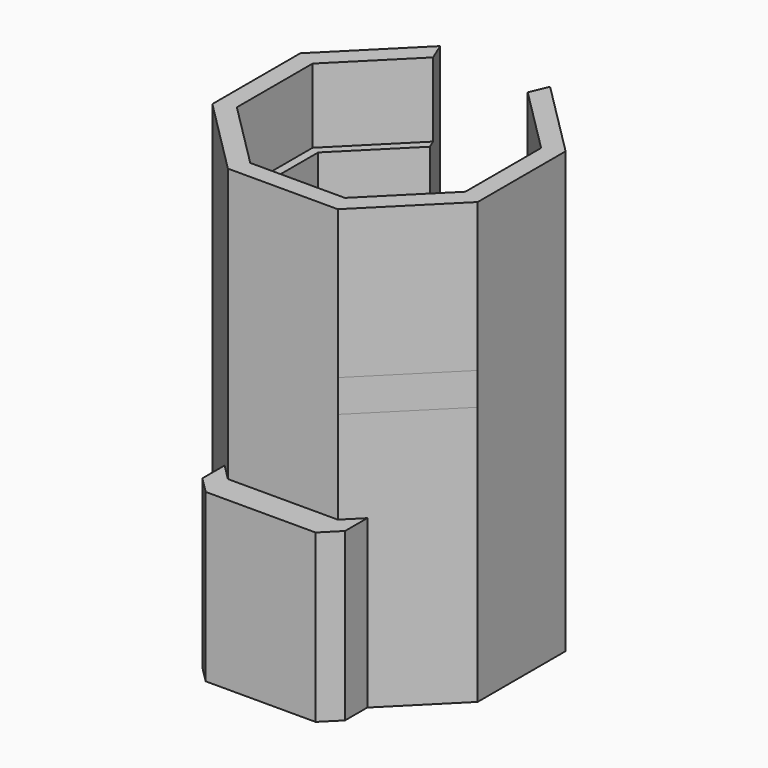
from build123d import *

# Parameters (mm, degrees)
PAD010_DEPTH    = 16
PAD011_DEPTH    = 2
PAD012_DEPTH    = 16
SKETCH020_R     = 4.9658524872
POCKET004_DEPTH = 18.001
SKETCH021_R     = 4.9658524872
PAD013_DEPTH    = 10
FILLET001_R     = 4
PAD014_DEPTH    = 3.5
PAD015_DEPTH    = 8
PAD016_DEPTH    = 8
POCKET005_DEPTH = 16
POCKET006_DEPTH = 16
POCKET007_DEPTH = 5.4388264991
PAD017_DEPTH    = 18
PAD018_DEPTH    = 2


with BuildPart() as part:
    # Sketch017 → Pad010 (new body)
    with BuildSketch(Plane.XY):
        Polygon((-5.9315932017, 14.3201327539), (-14.3201327539, 5.9315932017), (-14.3201327539, -5.9315932017), (-5.9315932017, -14.3201327539), (5.9315932017, -14.3201327539), (14.3201327539, -5.9315932017), (14.3201327539, 5.9315932017), (5.9315932017, 14.3201327539), align=None)
        Polygon((-5.3516942143, 12.9201327539), (-12.9201327539, 5.3516942143), (-12.9201327539, -5.3516942143), (-5.3516942143, -12.9201327539), (5.3516942143, -12.9201327539), (12.9201327539, -5.3516942143), (12.9201327539, 5.3516942143), (5.3516942143, 12.9201327539), align=None, mode=Mode.SUBTRACT)
    extrude(amount=PAD010_DEPTH)

    # Sketch018 (on Face18 of Pad010) → Pad011 (join)
    with BuildSketch(Plane.XY.offset(16)):
        Polygon((-5.9315932017, 14.3201327539), (-14.3201327539, 5.9315932017), (-14.3201327539, -5.9315932017), (-5.9315932017, -14.3201327539), (5.9315932017, -14.3201327539), (14.3201327539, -5.9315932017), (14.3201327539, 5.9315932017), (5.9315932017, 14.3201327539), align=None)
    extrude(amount=PAD011_DEPTH)

    # Sketch019 (on Face10 of Pad011) → Pad012 (join)
    with BuildSketch(Plane(origin=(0, 0, 16), x_dir=(1, 0, 0), z_dir=(0, 0, -1))):
        Polygon((-3.6534186086, 8.8201327539), (-8.8201327539, 3.6534186086), (-8.8201327539, -3.6534186086), (-3.6534186086, -8.8201327539), (3.6534186086, -8.8201327539), (8.8201327539, -3.6534186086), (8.8201327539, 3.6534186086), (3.6534186086, 8.8201327539), align=None)
        Polygon((-3.0735196213, 7.4201327539), (-7.4201327539, 3.0735196213), (-7.4201327539, -3.0735196213), (-3.0735196213, -7.4201327539), (3.0735196213, -7.4201327539), (7.4201327539, -3.0735196213), (7.4201327539, 3.0735196213), (3.0735196213, 7.4201327539), align=None, mode=Mode.SUBTRACT)
    extrude(amount=PAD012_DEPTH)

    # Sketch020 (on Face18 of Pad012) → Pocket004 (cut, through all)
    with BuildSketch(Plane.XY.offset(18)):
        Circle(SKETCH020_R)
    extrude(amount=-POCKET004_DEPTH, mode=Mode.SUBTRACT)

    # Sketch021 (on Face18 of Pocket004) → Pad013 (join)
    with BuildSketch(Plane.XY.offset(18)):
        Polygon((-5.9315932017, 14.3201327539), (-14.3201327539, 5.9315932017), (-14.3201327539, -5.9315932017), (-5.9315932017, -14.3201327539), (5.9315932017, -14.3201327539), (14.3201327539, -5.9315932017), (14.3201327539, 5.9315932017), (5.9315932017, 14.3201327539), align=None)
        Circle(SKETCH021_R, mode=Mode.SUBTRACT)
    extrude(amount=PAD013_DEPTH)

    # Sketch022 (on Face30 of Pad013) → SubtractiveLoft001 section 0
    with BuildSketch(Plane.XY.offset(28)):
        with BuildLine():
            Line((-4, 8.8813062549), (4, 8.8813062549))
            ThreePointArc((9.6914368355, -0.9765515123), (7.540123318, 4.3532922273), (4, 8.8813062549))
            Line((9.6914368355, -0.9765515123), (5.6914368355, -7.9047547426))
            ThreePointArc((-5.6914368355, -7.9047547426), (0, -8.7065844547), (5.6914368355, -7.9047547426))
            Line((-9.6914368355, -0.9765515123), (-5.6914368355, -7.9047547426))
            ThreePointArc((-4, 8.8813062549), (-7.540123318, 4.3532922273), (-9.6914368355, -0.9765515123))
        make_face()
    # Sketch020 (on Face18 of Pad012) → SubtractiveLoft001 section 1
    with BuildSketch(Plane.XY.offset(18)):
        Circle(SKETCH020_R)
    loft(mode=Mode.SUBTRACT)

    # Fillet001
    fillet001_edges = [part.edges().sort_by_distance(p)[0] for p in [
        (-3.019628, 6.704561, 23),
        (3.019628, 6.704561, 23),
        (7.328645, -0.488276, 23),
        (4.296506, -5.967356, 23),
        (-4.296506, -5.967356, 23),
        (-7.316135, -0.737206, 23),
    ]]
    fillet(fillet001_edges, radius=FILLET001_R)

    # Fillet001 Face1 → Pad014 (add)
    with BuildSketch(Plane(origin=(-1.41492e-05, -8.3949e-06, 28), x_dir=(0, 1, 0), z_dir=(0, 0, 1))):
        Polygon((14.3201411488, 5.9315790525), (5.9316015966, 14.3201186047), (-5.9315848068, 14.3201186047), (-14.320124359, 5.9315790525), (-14.320124359, -5.9316073508), (-5.9315848068, -14.3201469031), (5.9316015966, -14.3201469031), (14.3201411488, -5.9316073508), align=None)
        with BuildLine():
            ThreePointArc((0.6981416524, 9.1988598615), (4.3533006222, 7.5401091688), (7.6174003456, 5.2040239924))
            add(Edge.make_bspline(
                [(7.617400349, 5.2040239959), (7.7132577068, 5.1201607596), (7.8063876359, 5.031886882), (7.8964125114, 4.939296241), (7.982957308, 4.8425381618), (8.0656595897, 4.7418240725), (8.2231599214, 4.5324356881), (8.2979128129, 4.4237205382), (8.3681230651, 4.3115347848), (8.433499246, 4.1961954396), (8.4938013046, 4.0780606035), (8.6043808728, 3.8359316462), (8.6545672642, 3.7118947093), (8.6992281813, 3.5858065872), (8.7382471408, 3.4580942261), (8.7715746096, 3.3291970115), (8.8269528158, 3.0695710659), (8.8489744981, 2.9388376243), (8.8653095986, 2.8077886123), (8.8760424303, 2.6768547935), (8.8813146498, 2.5464408839), (8.8813146498, 2.4169071006)],
                knots=[0, 0, 0, 0, 0, 0, 0, 0.2477442233, 0.2477442233, 0.2477442233, 0.2477442233, 0.2477442233, 0.4968400769, 0.4968400769, 0.4968400769, 0.4968400769, 0.4968400769, 0.7480972856, 0.7480972856, 0.7480972856, 0.7480972856, 0.7480972856, 1, 1, 1, 1, 1, 1, 1], degree=6))
            Line((8.8813146498, 2.4169071006), (8.8813146498, -2.4169428359))
            add(Edge.make_bspline(
                [(7.6184684728, -5.2031177542), (7.7141998617, -5.1193530811), (7.8071994091, -5.0311899638), (7.8970918841, -4.9387228248), (7.9835050144, -4.8421012149), (8.0660794351, -4.7415357653), (8.223097021, -4.5327859906), (8.2975206049, -4.4245835278), (8.3674395837, -4.3129405287), (8.4325676541, -4.1981691561), (8.4926687812, -4.0806217478), (8.6027803271, -3.8400578604), (8.6527318289, -3.7170132504), (8.6972440385, -3.5919351855), (8.7362023889, -3.4652396749), (8.7695569702, -3.3373549891), (8.8256900723, -3.0772705135), (8.8482239814, -2.9450363921), (8.8649390708, -2.8124565497), (8.8759208402, -2.679976275), (8.8813146498, -2.5480141631), (8.8813146498, -2.4169428359)],
                knots=[0, 0, 0, 0, 0, 0, 0, 0.2474979121, 0.2474979121, 0.2474979121, 0.2474979121, 0.2474979121, 0.4955900725, 0.4955900725, 0.4955900725, 0.4955900725, 0.4955900725, 0.7450925502, 0.7450925502, 0.7450925502, 0.7450925502, 0.7450925502, 1, 1, 1, 1, 1, 1, 1], degree=6))
            ThreePointArc((7.6184684694, -5.2031177507), (4.3560410308, -7.5385550108), (0.702788764, -9.1973038955))
            add(Edge.make_bspline(
                [(-2.3412672326, -8.9035271494), (-2.236935105, -8.9637633314), (-2.1296098318, -9.0204050248), (-2.019470756, -9.0731700712), (-1.9067430426, -9.1217916602), (-1.7916909147, -9.1660312162), (-1.5571821217, -9.2454694897), (-1.4377127853, -9.280641119), (-1.3165018607, -9.3110059539), (-1.1938788363, -9.3364066866), (-1.0701936185, -9.3567352557), (-0.8064191589, -9.3889765775), (-0.6661493719, -9.3995790554), (-0.5255037121, -9.4036706036), (-0.3850009924, -9.4012643783), (-0.2451499313, -9.3924565829), (0.0327724507, -9.3623324895), (0.1708372317, -9.3409728663), (0.3072902714, -9.3135138673), (0.4416840349, -9.2802053504), (0.5736284855, -9.241353714), (0.7027888156, -9.1973040851)],
                knots=[0, 0, 0, 0, 0, 0, 0, 0.2350343434, 0.2350343434, 0.2350343434, 0.2350343434, 0.2350343434, 0.4707687837, 0.4707687837, 0.4707687837, 0.4707687837, 0.4707687837, 0.734930918, 0.734930918, 0.734930918, 0.734930918, 0.734930918, 1, 1, 1, 1, 1, 1, 1], degree=6))
            Line((-2.3412672326, -8.9035271494), (-6.5324658341, -6.4837375086))
            add(Edge.make_bspline(
                [(-8.3155145246, -3.9948616217), (-8.2908126974, -4.1198220007), (-8.2609186068, -4.2446365601), (-8.2257236861, -4.3689307005), (-8.1851689387, -4.4923032307), (-8.1392559976, -4.6143329806), (-8.0367828061, -4.8550202081), (-7.9802101899, -4.9736742255), (-7.9183948463, -5.0901533271), (-7.8514643606, -5.2040500217), (-7.7796070218, -5.3149804622), (-7.6258847302, -5.5311266045), (-7.5439399253, -5.636286972), (-7.457485061, -5.737725806), (-7.3668285141, -5.8351311305), (-7.2723225379, -5.9282420517), (-7.0749205206, -6.1067887102), (-6.9719199832, -6.1920903856), (-6.8657463239, -6.2725502634), (-6.7568266004, -6.3480216406), (-6.6455940847, -6.4184228826), (-6.5324658341, -6.4837375086)],
                knots=[0, 0, 0, 0, 0, 0, 0, 0.24780973, 0.24780973, 0.24780973, 0.24780973, 0.24780973, 0.4959051763, 0.4959051763, 0.4959051763, 0.4959051763, 0.4959051763, 0.7460935522, 0.7460935522, 0.7460935522, 0.7460935522, 0.7460935522, 1, 1, 1, 1, 1, 1, 1], degree=6))
            ThreePointArc((-8.3155145198, -3.9948616205), (-8.7065760598, -2.00625e-05), (-8.3155168133, 3.9948217199))
            add(Edge.make_bspline(
                [(-6.5337599338, 6.4829620614), (-6.6455542356, 6.4184175912), (-6.755487484, 6.3489015056), (-6.8631577023, 6.2744305903), (-6.9681479442, 6.1950834864), (-7.0700472193, 6.1110006677), (-7.2672581907, 5.9334417248), (-7.362544914, 5.8399315951), (-7.4539419661, 5.7420576907), (-7.5410902608, 5.6400844123), (-7.6236753949, 5.5343285429), (-7.7780149066, 5.3176485169), (-7.8499165659, 5.2068278006), (-7.9169014338, 5.0930321737), (-7.978781337, 4.9766437167), (-8.0354283811, 4.8580681688), (-8.138294911, 4.6169799347), (-8.1844800066, 4.4944551108), (-8.2252676958, 4.3705620058), (-8.2606555015, 4.2457262338), (-8.2907021991, 4.1203530637), (-8.3155168181, 3.9948217211)],
                knots=[0, 0, 0, 0, 0, 0, 0, 0.2510376333, 0.2510376333, 0.2510376333, 0.2510376333, 0.2510376333, 0.503000037, 0.503000037, 0.503000037, 0.503000037, 0.503000037, 0.7510961986, 0.7510961986, 0.7510961986, 0.7510961986, 0.7510961986, 1, 1, 1, 1, 1, 1, 1], degree=6))
            Line((-6.5337599338, 6.4829620614), (-2.3475295313, 8.8998833112))
            add(Edge.make_bspline(
                [(0.6981416538, 9.1988598662), (0.5775852817, 9.239943155), (0.4545728967, 9.2764591007), (0.3293746116, 9.3081276093), (0.2023072587, 9.3346985622), (0.073735158, 9.3559637944), (-0.186350668, 9.3876688906), (-0.3178771953, 9.3980492187), (-0.4501380339, 9.402760204), (-0.5827129273, 9.4017079648), (-0.7151717258, 9.3948636614), (-0.9801513379, 9.369563898), (-1.1126636718, 9.3510081194), (-1.2441896473, 9.3266415471), (-1.3743012761, 9.2965767767), (-1.5025932728, 9.260990604), (-1.7551250402, 9.1791365646), (-1.8793543629, 9.1328411802), (-2.0010136867, 9.0814632862), (-2.1197721158, 9.0252912816), (-2.2353499843, 8.9646502028), (-2.3475295313, 8.8998833112)],
                knots=[0, 0, 0, 0, 0, 0, 0, 0.2477442233, 0.2477442233, 0.2477442233, 0.2477442233, 0.2477442233, 0.496840077, 0.496840077, 0.496840077, 0.496840077, 0.496840077, 0.7480972856, 0.7480972856, 0.7480972856, 0.7480972856, 0.7480972856, 1, 1, 1, 1, 1, 1, 1], degree=6))
        make_face(mode=Mode.SUBTRACT)
    extrude(amount=PAD014_DEPTH)

    # Sketch023 (on Face18 of Pad014) → Pad015 (join)
    with BuildSketch(Plane.XY.offset(31.5)):
        Polygon((-5.9315932017, 14.3201327539), (-14.3201327539, 5.9315932017), (-14.3201327539, -5.9315932017), (-5.9315932017, -14.3201327539), (5.9315932017, -14.3201327539), (14.3201327539, -5.9315932017), (14.3201327539, 5.9315932017), (5.9315932017, 14.3201327539), align=None)
        Polygon((-11.4330092148, 4.7357074755), (-11.4330092148, -4.7357074755), (-4.7357074755, -11.4330092148), (4.7357074755, -11.4330092148), (11.4330092148, -4.7357074755), (11.4330092148, 4.7357074755), (4.7357074755, 11.4330092148), (-4.7357074755, 11.4330092148), align=None, mode=Mode.SUBTRACT)
    extrude(amount=PAD015_DEPTH)

    # Sketch024 (on Face1 of Pad015) → Pad016 (join)
    with BuildSketch(Plane.XY.offset(39.5)):
        Polygon((-5.9315932017, 14.3201327539), (-14.3201327539, 5.9315932017), (-14.3201327539, -5.9315932017), (-5.9315932017, -14.3201327539), (5.9315932017, -14.3201327539), (14.3201327539, -5.9315932017), (14.3201327539, 5.9315932017), (5.9315932017, 14.3201327539), align=None)
        Polygon((-12.333791759, 5.1088238221), (-12.333791759, -5.1088238221), (-5.1088238221, -12.333791759), (5.1088238221, -12.333791759), (12.333791759, -5.1088238221), (12.333791759, 5.1088238221), (5.1088238221, 12.333791759), (-5.1088238221, 12.333791759), align=None, mode=Mode.SUBTRACT)
    extrude(amount=PAD016_DEPTH)

    # Sketch025 (on Face1 of Pad016) → Pocket005 (cut)
    with BuildSketch(Plane(origin=(0, 0, 0), x_dir=(1, 0, 0), z_dir=(0, 0, -1))):
        Polygon((-5.9315932017, 14.3201327539), (5.9315932017, 14.3201327539), (5.3516942143, 12.9201327539), (-5.3516942143, 12.9201327539), align=None)
    extrude(amount=-POCKET005_DEPTH, mode=Mode.SUBTRACT)

    # Sketch026 (on Face18 of Pocket005) → Pocket006 (cut)
    with BuildSketch(Plane.XY.offset(47.5)):
        Polygon((-5.9315932017, 14.3201327539), (5.9315932017, 14.3201327539), (4.7357074755, 11.4330092148), (-4.7357074755, 11.4330092148), align=None)
    extrude(amount=-POCKET006_DEPTH, mode=Mode.SUBTRACT)

    # Sketch027 (on Face2 of Pocket006) → Pocket007 (cut)
    with BuildSketch(Plane(origin=(0, 14.3201327539, 0), x_dir=(-1, 0, 0), z_dir=(0, 1, 0))):
        Polygon((-1.75, 31.5), (-1, 30), (1, 30), (1.75, 31.5), align=None)
    extrude(amount=-POCKET007_DEPTH, mode=Mode.SUBTRACT)

    # Sketch028 (on Face1 of Pocket007) → Pad017 (join)
    with BuildSketch(Plane(origin=(0, 0, 0), x_dir=(1, 0, 0), z_dir=(0, 0, -1))):
        Polygon((-5.9315932017, 15.3201327539), (5.9315932017, 15.3201327539), (5.9315932017, 14.3201327539), (7.6993601546, 12.552365801), (7.6993601546, 15.552365801), (5.9315932017, 17.3201327539), (-5.9315932017, 17.3201327539), (-7.6993601546, 15.552365801), (-7.6993601546, 12.552365801), (-5.9315932017, 14.3201327539), align=None)
    extrude(amount=-PAD017_DEPTH)

    # Sketch029 (on Face19 of Pad017) → Pad018 (join)
    with BuildSketch(Plane.XY.offset(18)):
        Polygon((-7.6993601546, -12.552365801), (7.6993601546, -12.552365801), (7.6993601546, -15.552365801), (5.9315932017, -17.3201327539), (-5.9315932017, -17.3201327539), (-7.6993601546, -15.552365801), align=None)
    extrude(amount=-PAD018_DEPTH)


solid = part.part
